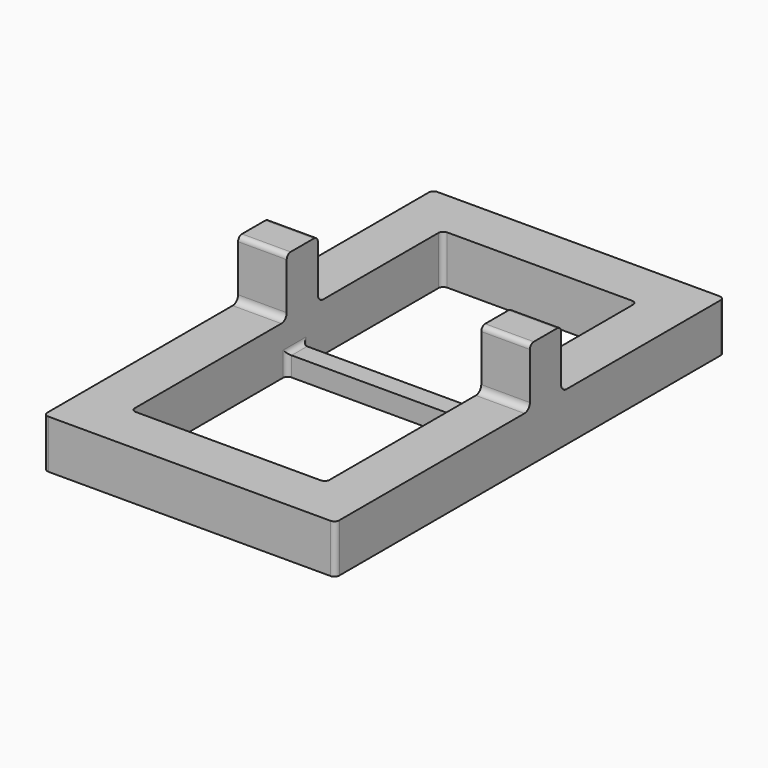
from build123d import *

# Parameters (mm, degrees)
F0_W     = 30
F0_H     = 50
F0_W_2   = 20
F0_H_2   = 40
F1_DEPTH = 5
F2_W     = 5
F2_H     = 4
F3_DEPTH = 6
F4_W     = 2
F4_H     = 2
F5_DEPTH = 20.11
F6_R     = 0.5
F7_R     = 0.7


with BuildPart() as f1:
    # F0 (on Top) → F1 (new body)
    with BuildSketch(Plane.XY):
        with Locations((15, 25)):
            Rectangle(F0_W, F0_H)
        with Locations((15, 25)):
            Rectangle(F0_W_2, F0_H_2, mode=Mode.SUBTRACT)
    extrude(amount=F1_DEPTH)

    # F2 (on face) → F3 (join)
    with BuildSketch(Plane.XY.offset(5)):
        with Locations((2.5, 27)):
            Rectangle(F2_W, F2_H)
        with Locations((27.5, 27)):
            Rectangle(F2_W, F2_H)
    extrude(amount=F3_DEPTH)

    # F4 (on face) → F5 (join)
    with BuildSketch(Plane(origin=(25, 0, 0), x_dir=(0, -1, 0), z_dir=(-1, 0, 0))):
        with Locations((-26, 1)):
            Rectangle(F4_W, F4_H)
    extrude(amount=F5_DEPTH)

    # F6
    f6_edges = [f1.edges().sort_by_distance(p)[0] for p in [
        (27.5, 29, 11),
        (27.5, 25, 11),
        (2.5, 25, 11),
        (2.5, 29, 11),
        (30, 0, 2.5),
        (25, 5, 2.5),
        (30, 50, 2.5),
        (0, 50, 2.5),
        (5, 45, 2.5),
        (5, 5, 2.5),
        (5, 27, 1),
        (5, 26, 2),
        (5, 25, 1),
        (25, 25, 1),
        (25, 26, 2),
        (25, 45, 2.5),
        (25, 27, 1),
        (0, 0, 2.5),
    ]]
    fillet(f6_edges, radius=F6_R)

    # F7
    f7_edges = [f1.edges().sort_by_distance(p)[0] for p in [
        (2.5, 25, 5),
        (27.5, 25, 5),
        (27.5, 29, 5),
        (2.5, 29, 5),
    ]]
    fillet(f7_edges, radius=F7_R)


solid = f1.part
